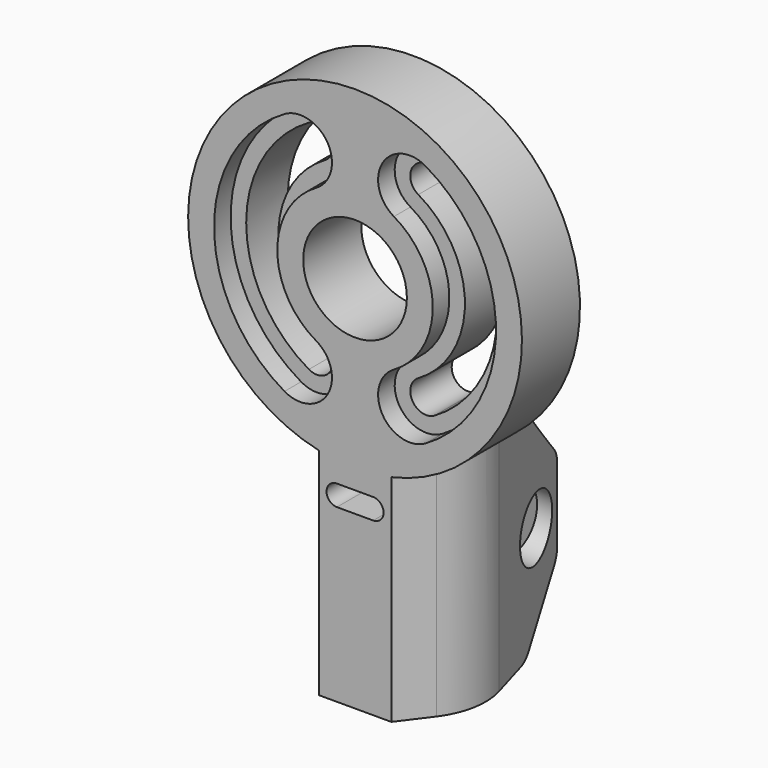
from build123d import *

# Parameters (mm, degrees)
EXTRUDE003_DEPTH                     = 10
SKETCH009_R                          = 3.05
EXTRUDE002_DEPTH                     = 10
SKETCH001_AS_DRAWN_R                 = 16.1
SKETCH001_AS_DRAWN_R_2               = 5
EXTRUDE001_DEPTH                     = 7
EXTRUDE001_ONTO_SKETCH001_ROLL_ANGLE = 90
EXTRUDE_DEPTH                        = 22
POCKET_DEPTH                         = 13.001
POCKET001_DEPTH                      = 52.599621
CHAMFER_SIZE                         = 6
FILLET_R                             = 2
SKETCH004_R                          = 5
POCKET002_DEPTH                      = 16
SKETCH005_R                          = 1.55
POCKET003_DEPTH                      = 15.776
POCKET003_DEPTH_BACK                 = -16.426
SKETCH006_R                          = 3
POCKET004_DEPTH                      = 3
POCKET005_DEPTH                      = 7
POCKET006_DEPTH                      = 2


with BuildPart() as extrude003:
    # Sketch010 → Extrude003 (new body)
    with BuildSketch(Plane.YZ.offset(-0.325)):
        Polygon((8.994713, 13.383665), (6.353336, 11.858665), (6.353336, 8.808665), (8.994713, 7.283665), (11.636091, 8.808665), (11.636091, 11.858665), align=None)
    extrude(amount=-EXTRUDE003_DEPTH)


with BuildPart() as extrude003_1:
    # Extrude003 placement: moved
    add(extrude003.part.moved(Location((-2, 0, 0))))


with BuildPart() as extrude002:
    # Sketch009 → Extrude002 (new body)
    with BuildSketch(Plane(origin=(0.325, 0, 0), x_dir=(0, -1, 0), z_dir=(-1, 0, 0))):
        with Locations((-8.994713, 10.333665)):
            Circle(SKETCH009_R)
    extrude(amount=-EXTRUDE002_DEPTH)


with BuildPart() as extrude002_1:
    # Extrude002 placement: moved
    add(extrude002.part.moved(Location((2, 0, 0))))


with BuildPart() as extrude001:
    # Sketch001 as drawn → Extrude001 (new)
    with BuildSketch(Plane.XY):
        with Locations((0, 36.498621)):
            Circle(SKETCH001_AS_DRAWN_R)
        with Locations((0, 36.498621)):
            Circle(SKETCH001_AS_DRAWN_R_2, mode=Mode.SUBTRACT)
        with BuildLine():
            ThreePointArc((-4.5, 44.292849), (-9, 36.498621), (-4.5, 28.704392))
            ThreePointArc((-6.05, 26.019713), (-3.932661, 26.587053), (-4.5, 28.704392))
            ThreePointArc((-6.05, 46.977528), (-12.1, 36.498621), (-6.05, 26.019713))
            ThreePointArc((-4.5, 44.292849), (-3.932661, 46.410189), (-6.05, 46.977528))
        make_face(mode=Mode.SUBTRACT)
        with BuildLine():
            ThreePointArc((4.5, 28.704392), (9, 36.498621), (4.5, 44.292849))
            ThreePointArc((6.05, 46.977528), (3.932661, 46.410189), (4.5, 44.292849))
            ThreePointArc((6.05, 26.019713), (12.1, 36.498621), (6.05, 46.977528))
            ThreePointArc((4.5, 28.704392), (3.932661, 26.587053), (6.05, 26.019713))
        make_face(mode=Mode.SUBTRACT)
    extrude(amount=EXTRUDE001_DEPTH)


with BuildPart() as extrude001_1:
    # Extrude001 onto Sketch001 roll: moved
    add(extrude001.part.rotate(Axis((0, 0, 0), (1, 0, 0)), EXTRUDE001_ONTO_SKETCH001_ROLL_ANGLE))


with BuildPart() as extrude001_2:
    # Extrude001 onto Sketch001 placement: moved
    add(extrude001_1.part)


with BuildPart() as cut001:
    # Sketch → Extrude (new body)
    with BuildSketch(Plane.XY):
        with BuildLine():
            ThreePointArc((-6.72, 1.96), (-6.887092, -1.252184), (-5.600017, -4.199977))
            Line((-5.600017, -4.199977), (-3.5, -7))
            Line((-3.5, -7), (3.5, -7))
            Line((3.5, -7), (5.600017, -4.199977))
            ThreePointArc((5.600017, -4.199977), (6.887092, -1.252184), (6.72, 1.96))
            Line((3.5, 13), (6.72, 1.96))
            Line((-3.5, 13), (3.5, 13))
            Line((-6.72, 1.96), (-3.5, 13))
        make_face()
    extrude(amount=EXTRUDE_DEPTH)

    # Fusion: union Extrude001
    add(extrude001_2.part)

    # Sketch002 → Pocket (cut, through all)
    with BuildSketch(Plane(origin=(0, 0, 0), x_dir=(-1, 0, 0), z_dir=(0, 1, 0))):
        with BuildLine():
            ThreePointArc((-7, 22), (0, 20.398621), (7, 22))
            Line((-7, 22), (7, 22))
        make_face()
    extrude(amount=POCKET_DEPTH, mode=Mode.SUBTRACT)

    # Sketch003 → Pocket001 (cut, through all)
    with BuildSketch(Plane(origin=(0, 0, 0), x_dir=(1, 0, 0), z_dir=(0, 0, -1))):
        with BuildLine():
            Line((-1.5, 0), (1.5, 0))
            ThreePointArc((0.325, -1.464368), (1.169936, -0.938749), (1.5, 0))
            Line((0.325, -13), (0.325, -1.464368))
            Line((-0.325, -13), (0.325, -13))
            Line((-0.325, -1.464368), (-0.325, -13))
            ThreePointArc((-1.5, 0), (-1.169936, -0.938749), (-0.325, -1.464368))
        make_face()
    extrude(amount=-POCKET001_DEPTH, mode=Mode.SUBTRACT)

    # Chamfer
    chamfer_edges = [cut001.edges().sort_by_distance(p)[0] for p in [
        (-1.9125, 13, 0),
        (1.9125, 13, 0),
        (-1.922002, 13, 20.513756),
        (1.922002, 13, 20.513756),
    ]]
    chamfer(chamfer_edges, length=CHAMFER_SIZE)

    # Fillet
    fillet_edges = [cut001.edges().sort_by_distance(p)[0] for p in [
        (-2.7875, 7, 0),
        (2.7875, 7, 0),
        (-1.9125, 13, 6),
        (1.9125, 13, 6),
        (-1.917491, 13, 14.481963),
        (-2.82176, 7, 20.647827),
        (2.82176, 7, 20.647827),
        (1.917491, 13, 14.481963),
    ]]
    fillet(fillet_edges, radius=FILLET_R)

    # Sketch004 → Pocket002 (cut)
    with BuildSketch(Plane(origin=(0, 0, 0), x_dir=(1, 0, 0), z_dir=(0, 0, -1))):
        Circle(SKETCH004_R)
    extrude(amount=-POCKET002_DEPTH, mode=Mode.SUBTRACT)

    # Sketch005 → Pocket003 (cut, two sides)
    with BuildSketch(Plane(origin=(0.325, 0, 0), x_dir=(0, -1, 0), z_dir=(-1, 0, 0))) as pocket003_sk:
        with Locations((-8.994713, 10.333665)):
            Circle(SKETCH005_R)
    extrude(amount=-POCKET003_DEPTH, mode=Mode.SUBTRACT)
    extrude(pocket003_sk.sketch, amount=-POCKET003_DEPTH_BACK, mode=Mode.SUBTRACT)

    # Sketch006 → Pocket004 (cut)
    with BuildSketch(Plane(origin=(0, 0, 16), x_dir=(1, 0, 0), z_dir=(0, 0, -1))):
        Circle(SKETCH006_R)
    extrude(amount=-POCKET004_DEPTH, mode=Mode.SUBTRACT)

    # Sketch007 → Pocket005 (cut)
    with BuildSketch(Plane.XZ.offset(7)):
        with BuildLine():
            Line((-1.75, 18.53366), (1.75, 18.53366))
            ThreePointArc((1.75, 16.53366), (2.75, 17.53366), (1.75, 18.53366))
            Line((1.75, 16.53366), (-1.75, 16.53366))
            ThreePointArc((-1.75, 18.53366), (-2.75, 17.53366), (-1.75, 16.53366))
        make_face()
    extrude(amount=-POCKET005_DEPTH, mode=Mode.SUBTRACT)

    # Sketch008 → Pocket006 (cut)
    with BuildSketch(Plane.XZ.offset(7)):
        with BuildLine():
            ThreePointArc((-3.75, 42.993811), (-7.5, 36.498621), (-3.75, 30.00343))
            ThreePointArc((-6.8, 24.720675), (-2.633623, 25.837053), (-3.75, 30.00343))
            ThreePointArc((-6.8, 48.276566), (-13.6, 36.498621), (-6.8, 24.720675))
            ThreePointArc((-3.75, 42.993811), (-2.633623, 47.160189), (-6.8, 48.276566))
        make_face()
        with BuildLine():
            ThreePointArc((3.75, 30.00343), (7.5, 36.498621), (3.75, 42.993811))
            ThreePointArc((6.8, 48.276566), (2.633623, 47.160189), (3.75, 42.993811))
            ThreePointArc((6.8, 24.720675), (13.6, 36.498621), (6.8, 48.276566))
            ThreePointArc((3.75, 30.00343), (2.633623, 25.837053), (6.8, 24.720675))
        make_face()
    extrude(amount=-POCKET006_DEPTH, mode=Mode.SUBTRACT)

    # Cut: cut Extrude002
    add(extrude002_1.part, mode=Mode.SUBTRACT)

    # Cut001: cut Extrude003
    add(extrude003_1.part, mode=Mode.SUBTRACT)


solid = cut001.part
